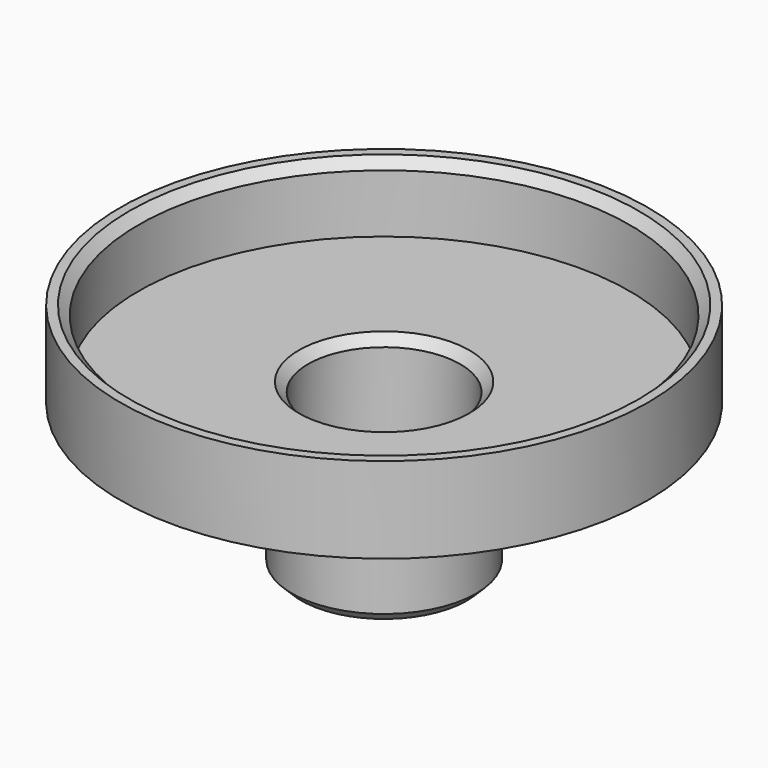
from build123d import *

# Parameters (mm, degrees)
SKETCH_R        = 43
PAD_DEPTH       = 3
SKETCH001_R     = 43
SKETCH001_R_2   = 40
PAD001_DEPTH    = 11
SKETCH002_R     = 12.4
POCKET_DEPTH    = 5
SKETCH003_R     = 15
SKETCH003_R_2   = 12.4
PAD002_DEPTH    = 13
SKETCH004_R     = 15
SKETCH004_R_2   = 6
PAD003_DEPTH    = 3
SKETCH005_R     = 15
SKETCH005_R_2   = 7.75
PAD004_DEPTH    = 8
CHAMFER_SIZE    = 1.5
CHAMFER001_SIZE = 1.5
CHAMFER002_SIZE = 1.5
CHAMFER003_SIZE = 1.5


with BuildPart() as part:
    # Sketch → Pad (new body)
    with BuildSketch(Plane.XY):
        Circle(SKETCH_R)
    extrude(amount=PAD_DEPTH)

    # Sketch001 (on Face3 of Pad) → Pad001 (join)
    with BuildSketch(Plane.XY.offset(3)):
        Circle(SKETCH001_R)
        Circle(SKETCH001_R_2, mode=Mode.SUBTRACT)
    extrude(amount=PAD001_DEPTH)

    # Sketch002 (on Face6 of Pad001) → Pocket (cut)
    with BuildSketch(Plane.XY.offset(3)):
        Circle(SKETCH002_R)
    extrude(amount=-POCKET_DEPTH, mode=Mode.SUBTRACT)

    # Sketch003 (on Face2 of Pocket) → Pad002 (join)
    with BuildSketch(Plane(origin=(0, 0, 0), x_dir=(1, 0, 0), z_dir=(0, 0, -1))):
        Circle(SKETCH003_R)
        Circle(SKETCH003_R_2, mode=Mode.SUBTRACT)
    extrude(amount=PAD002_DEPTH)

    # Sketch004 (on Face6 of Pad002) → Pad003 (join)
    with BuildSketch(Plane(origin=(0, 0, -13), x_dir=(1, 0, 0), z_dir=(0, 0, -1))):
        Circle(SKETCH004_R)
        Circle(SKETCH004_R_2, mode=Mode.SUBTRACT)
    extrude(amount=PAD003_DEPTH)

    # Sketch005 (on Face8 of Pad003) → Pad004 (join)
    with BuildSketch(Plane(origin=(0, 0, -16), x_dir=(1, 0, 0), z_dir=(0, 0, -1))):
        Circle(SKETCH005_R)
        with Locations((0, -0.177664)):
            Circle(SKETCH005_R_2, mode=Mode.SUBTRACT)
    extrude(amount=PAD004_DEPTH)

    # Chamfer
    chamfer_edges = [part.edges().sort_by_distance(p)[0] for p in [
        (-15, 0, -24),
    ]]
    chamfer(chamfer_edges, length=CHAMFER_SIZE)

    # Chamfer001
    chamfer001_edges = [part.edges().sort_by_distance(p)[0] for p in [
        (-7.75, 0.177664, -24),
    ]]
    chamfer(chamfer001_edges, length=CHAMFER001_SIZE)

    # Chamfer002
    chamfer002_edges = [part.edges().sort_by_distance(p)[0] for p in [
        (-12.4, 0, 3),
    ]]
    chamfer(chamfer002_edges, length=CHAMFER002_SIZE)

    # Chamfer003
    chamfer003_edges = [part.edges().sort_by_distance(p)[0] for p in [
        (-40, 0, 14),
    ]]
    chamfer(chamfer003_edges, length=CHAMFER003_SIZE)


solid = part.part
